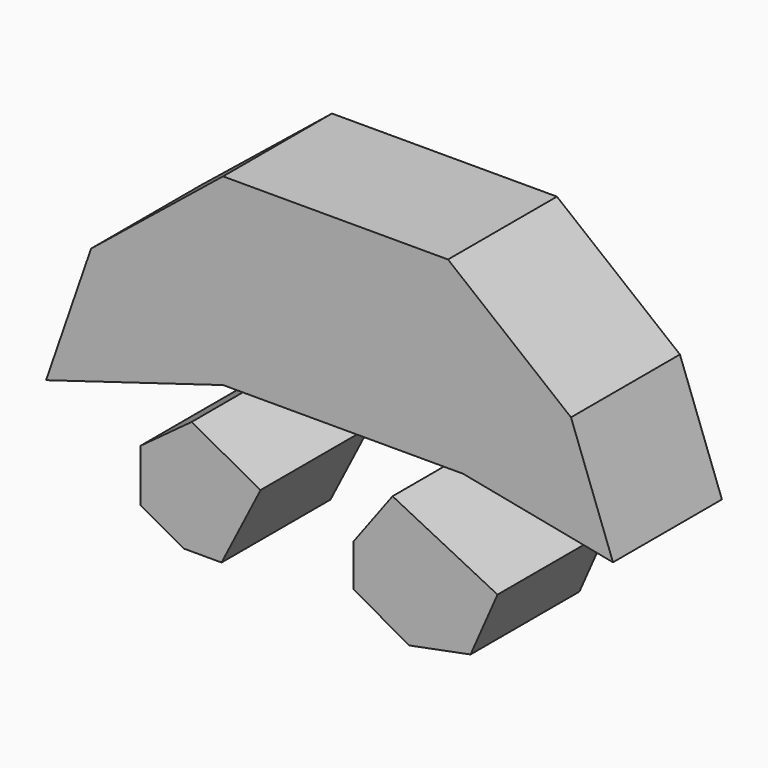
from build123d import *

# Parameters (mm, degrees)
F1_DEPTH = 25.4
F3_DEPTH = 25.4


with BuildPart() as f1:
    # F0 (on Front) → F1 (new body)
    with BuildSketch(Plane.XZ):
        Polygon((-19.163234, 34.270018), (-43.781698, 14.407394), (-52.174352, -9.931311), (-19.163234, 0), (25.597604, 0), (53.573128, -5.455228), (45.739982, 15.806172), (22.800053, 34.270018), align=None)
    extrude(amount=F1_DEPTH)


with BuildPart() as f3:
    # F2 (on Front) → F3 (new body)
    with BuildSketch(Plane.XZ):
        Polygon((-12.169353, -14.966905), (-25.038095, -7.973025), (-34.549773, -14.966905), (-34.549773, -24.758339), (-26.436871, -29.234422), (-19.44299, -29.234422), align=None)
        Polygon((32.031979, -17.764458), (12.449107, -7.973025), (5.175473, -17.764458), (5.175473, -25.597606), (15.526418, -31.472467), (26.99638, -29.234422), align=None)
    extrude(amount=F3_DEPTH)


solid = Compound([f1.part, f3.part])
